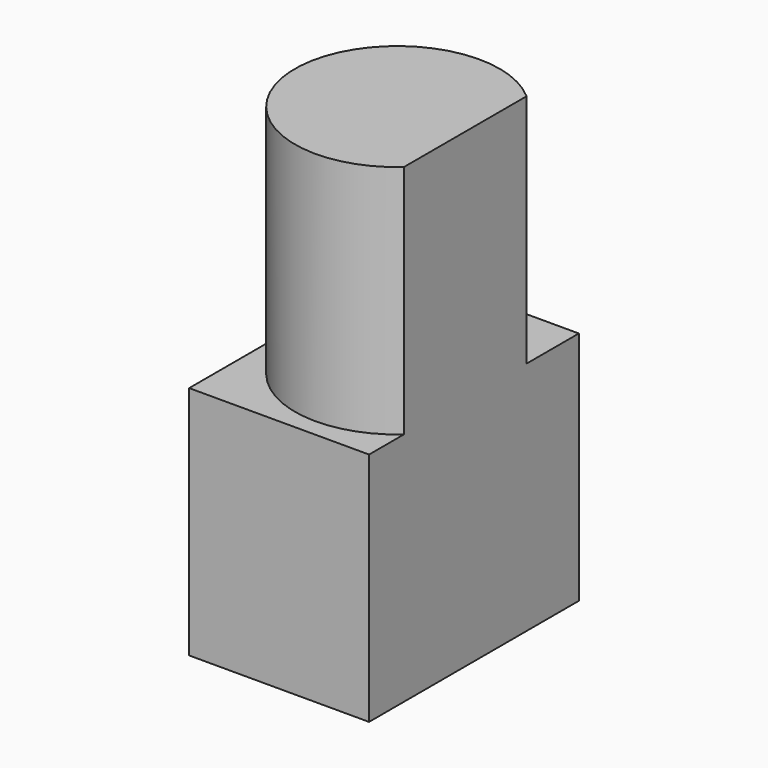
from build123d import *

# Parameters (mm, degrees)
F0_W     = 19.4115899503
F0_H     = 28.2941963524
F1_DEPTH = 25.4
F3_DEPTH = 25.4


with BuildPart() as f1:
    # F0 (on Top) → F1 (new body)
    with BuildSketch(Plane.XY):
        with Locations((-9.7057949752, 14.1470981762)):
            Rectangle(F0_W, F0_H)
    extrude(amount=F1_DEPTH)

    # F2 (on face) → F3 (join)
    with BuildSketch(Plane.XY.offset(25.4)):
        with BuildLine():
            Line((0, 4.6914111863), (0, 21.2403103669))
            ThreePointArc((0, 21.2403103669), (-18.3741405241, 12.9658607766), (0, 4.6914111863))
        make_face()
    extrude(amount=F3_DEPTH)


solid = f1.part
